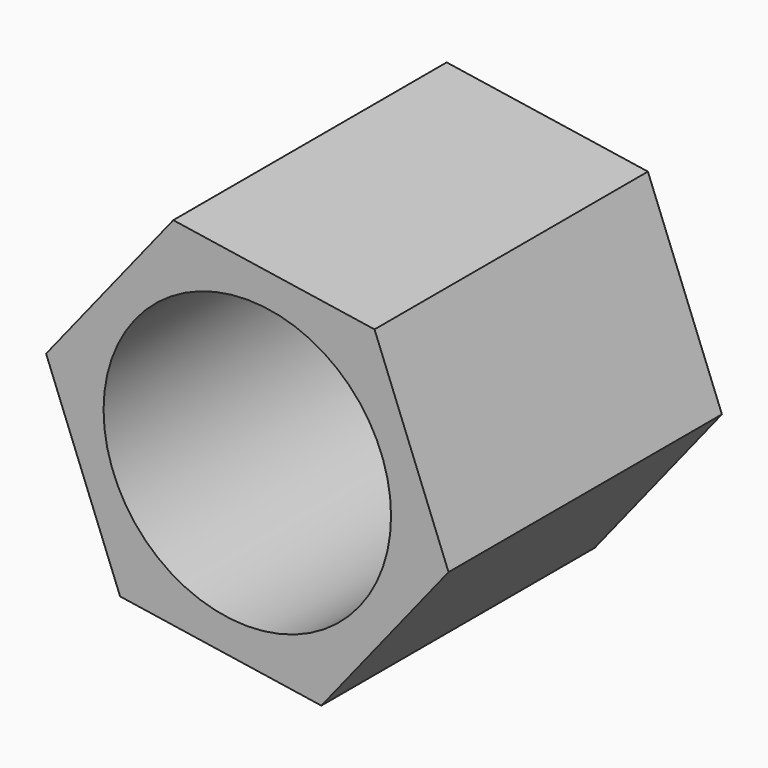
from build123d import *

# Parameters (mm, degrees)
F0_R     = 26.5
F1_DEPTH = 58
F3_DEPTH = 5


with BuildPart() as f1:
    # F0 (on Front) → F1 (new body)
    with BuildSketch(Plane.XZ):
        Polygon((3.743613, -39.952497), (27.196158, -10.655544), (13.550526, 24.303433), (-23.547653, 29.965456), (-47.000198, 0.668504), (-33.354566, -34.290473), align=None)
        with Locations((-9.90202, -4.99352)):
            Circle(F0_R, mode=Mode.SUBTRACT)
    extrude(amount=F1_DEPTH)

    # F2 (on face) → F3 (join)
    with BuildSketch(Plane(origin=(0, 0, 0), x_dir=(-1, 0, 0), z_dir=(0, 1, 0))):
        Polygon((23.547653, 29.965456), (-13.550526, 24.303433), (-27.196158, -10.655544), (-3.743613, -39.952497), (33.354566, -34.290473), (47.000198, 0.668504), align=None)
    extrude(amount=F3_DEPTH)


solid = f1.part
